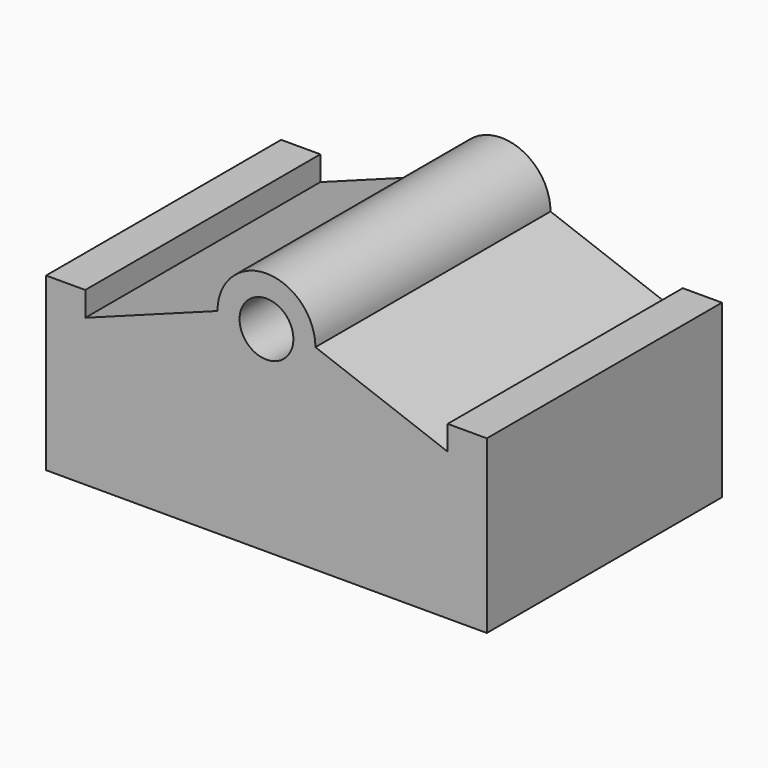
from build123d import *

# Parameters (mm, degrees)
F0_R     = 5.5
F1_DEPTH = 60


with BuildPart() as f1:
    # F0 (on Front) → F1 (new body)
    with BuildSketch(Plane.XZ):
        Polygon((-45, 35), (-45, 0), (0, 0), (45, 0), (45, 35), (37, 35), (37, 30), (37, 8), (4, 8), (-4, 8), (-37, 8), (-37, 30), (-37, 35), align=None)
        with BuildLine():
            Line((-10, 40), (-37, 30))
            Line((-37, 30), (-37, 8))
            Line((-37, 8), (-4, 8))
            Line((-4, 8), (-4, 30.8348486101))
            ThreePointArc((-4, 30.8348486101), (-8.3666002653, 34.5227744249), (-10, 40))
        make_face()
        with BuildLine():
            ThreePointArc((10, 40), (0, 50), (-10, 40))
            ThreePointArc((-10, 40), (-8.3666002653, 34.5227744249), (-4, 30.8348486101))
            Line((-4, 30.8348486101), (-4, 8))
            Line((-4, 8), (4, 8))
            Line((4, 8), (4, 30.8348486101))
            ThreePointArc((4, 30.8348486101), (8.3666002653, 34.5227744249), (10, 40))
        make_face()
        with Locations((0, 40)):
            Circle(F0_R, mode=Mode.SUBTRACT)
        with BuildLine():
            Line((37, 8), (37, 30))
            Line((37, 30), (10, 40))
            ThreePointArc((10, 40), (8.3666002653, 34.5227744249), (4, 30.8348486101))
            Line((4, 30.8348486101), (4, 8))
            Line((4, 8), (37, 8))
        make_face()
    extrude(amount=F1_DEPTH)


solid = f1.part
